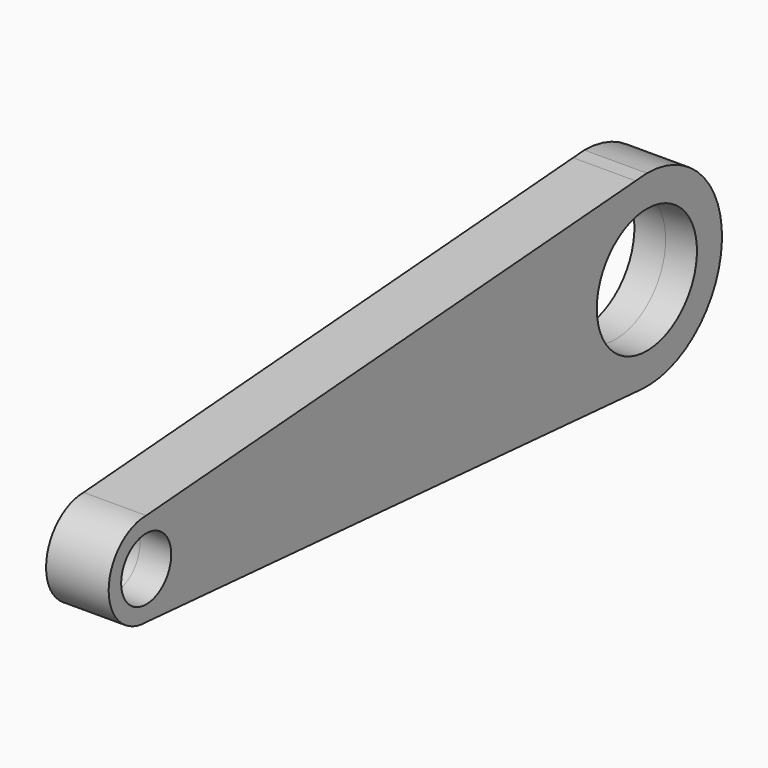
from build123d import *

# Parameters (mm, degrees)
F0_R     = 6.35
F1_DEPTH = 6.35


with BuildPart() as f1:
    # F0 (on Right) → F1 (new body, symmetric)
    with BuildSketch(Plane.YZ):
        with BuildLine():
            ThreePointArc((-76.2, -9.525), (-69.4648079092, -6.7351920908), (-66.675, 0))
            ThreePointArc((-66.675, 0), (-69.4648079092, 6.7351920908), (-76.2, 9.525))
            ThreePointArc((-76.2, 9.525), (-85.725, 0), (-76.2, -9.525))
        make_face()
        with Locations((-76.2, 0)):
            Circle(F0_R, mode=Mode.SUBTRACT)
        with BuildLine():
            ThreePointArc((-76.2, 9.525), (-69.4648079092, 6.7351920908), (-66.675, 0))
            Line((-66.675, 0), (31.75, 0))
            ThreePointArc((31.75, 0), (36.3598928544, 12.4252084741), (47.9584835301, 18.8368862648))
            Line((47.9584835301, 18.8368862648), (-76.2, 9.525))
        make_face()
        with BuildLine():
            Line((31.75, 0), (-66.675, 0))
            ThreePointArc((-66.675, 0), (-69.4648079092, -6.7351920908), (-76.2, -9.525))
            Line((-76.2, -9.525), (49.3672031886, -18.9960415165))
            ThreePointArc((49.3672031886, -18.9960415165), (36.8322285375, -12.9539129367), (31.75, 0))
        make_face()
        with BuildLine():
            ThreePointArc((47.9584835301, 18.8368862648), (36.3598928544, 12.4252084741), (31.75, 0))
            ThreePointArc((31.75, 0), (36.8322285375, -12.9539129367), (49.3672031886, -18.9960415165))
            ThreePointArc((49.3672031886, -18.9960415165), (63.7539129367, -13.9677714625), (69.85, 0))
            ThreePointArc((69.85, 0), (64.2703841816, 13.4703841816), (50.8, 19.05))
            Line((50.8, 19.05), (47.9584835301, 18.8368862648))
        make_face()
        with BuildLine():
            ThreePointArc((63.5, 0), (50.8, -12.7), (38.1, 0))
            ThreePointArc((38.1, 0), (50.8, 12.7), (63.5, 0))
        make_face(mode=Mode.SUBTRACT)
    extrude(amount=F1_DEPTH, both=True)


solid = f1.part
